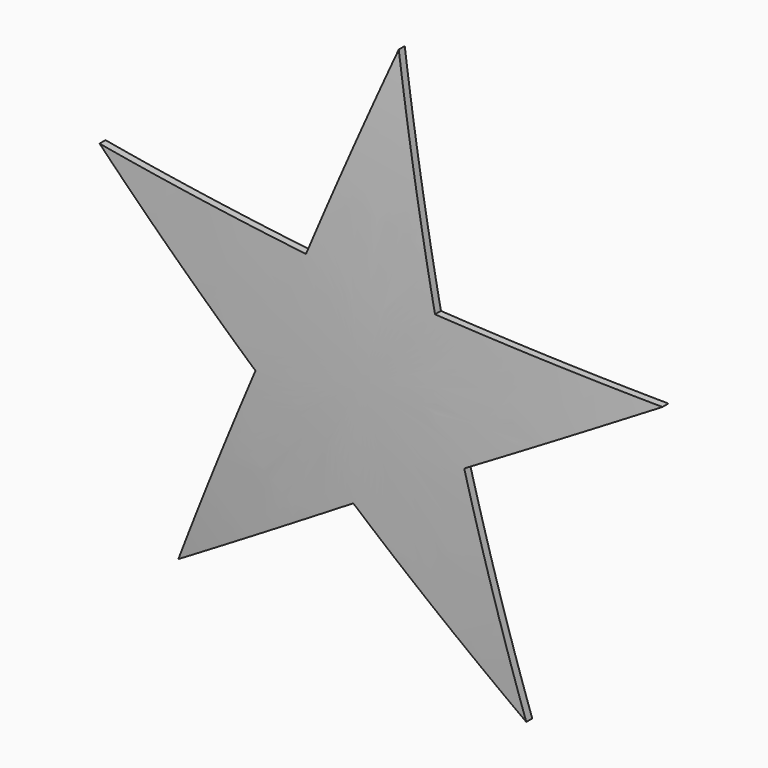
from build123d import *

# Parameters (mm, degrees)
F3_DEPTH = 283.3549028797


with BuildPart() as f1:
    # F0 (on Top) → F1 (revolve)
    with BuildSketch(Plane.XY):
        with BuildLine():
            Line((0, -280.1789028797), (0, -283.3539028797))
            ThreePointArc((0, -283.3539028797), (63.5797243259, -281.7614157298), (127, -276.9879480051))
            Line((127, -276.9879480051), (127, -273.7969125493))
            ThreePointArc((127, -273.7969125493), (63.5801262199, -278.5823993082), (0, -280.1789028797))
        make_face()
    revolve(axis=Axis((0, -280.1789028797, 0), (0, -1, 0)))

    # F2 (on Front) → F3 (cut, through all)
    with BuildSketch(Plane.XZ):
        with BuildLine():
            ThreePointArc((-116.9396589005, 49.5390368924), (-123.7244866651, -28.6574841789), (-83.2507657642, -95.907820326))
            Line((-83.2507657642, -95.907820326), (-45.8795627998, -10.6267795528))
            Line((-45.8795627998, -10.6267795528), (-116.9396589005, 49.5390368924))
        make_face()
        with BuildLine():
            ThreePointArc((-83.2507657642, -95.907820326), (-10.9780819308, -126.5246288954), (65.4878560688, -108.8133296408))
            Line((65.4878560688, -108.8133296408), (-4.0708966587, -46.9179126428))
            Line((-4.0708966587, -46.9179126428), (-83.2507657642, -95.907820326))
        make_face()
        with BuildLine():
            ThreePointArc((65.4878560688, -108.8133296408), (110.5575816503, -62.4981690902), (127, 0))
            ThreePointArc((127, 0), (126.1784644986, 14.4220351119), (123.7244866651, 28.6574841789))
            Line((123.7244866651, 28.6574841789), (43.3636103, -18.3700851417))
            Line((43.3636103, -18.3700851417), (65.4878560688, -108.8133296408))
        make_face()
        with BuildLine():
            Line((30.871081699, 35.564575649), (123.7244866651, 28.6574841789))
            ThreePointArc((123.7244866651, 28.6574841789), (83.2507657642, 95.907820326), (10.9780819308, 126.5246288954))
            Line((10.9780819308, 126.5246288954), (30.871081699, 35.564575649))
        make_face()
        with BuildLine():
            Line((-24.2842325405, 40.3502016882), (10.9780819308, 126.5246288954))
            ThreePointArc((10.9780819308, 126.5246288954), (-65.4878560688, 108.8133296408), (-116.9396589005, 49.5390368924))
            Line((-116.9396589005, 49.5390368924), (-24.2842325405, 40.3502016882))
        make_face()
    extrude(amount=F3_DEPTH, mode=Mode.SUBTRACT)


solid = f1.part
